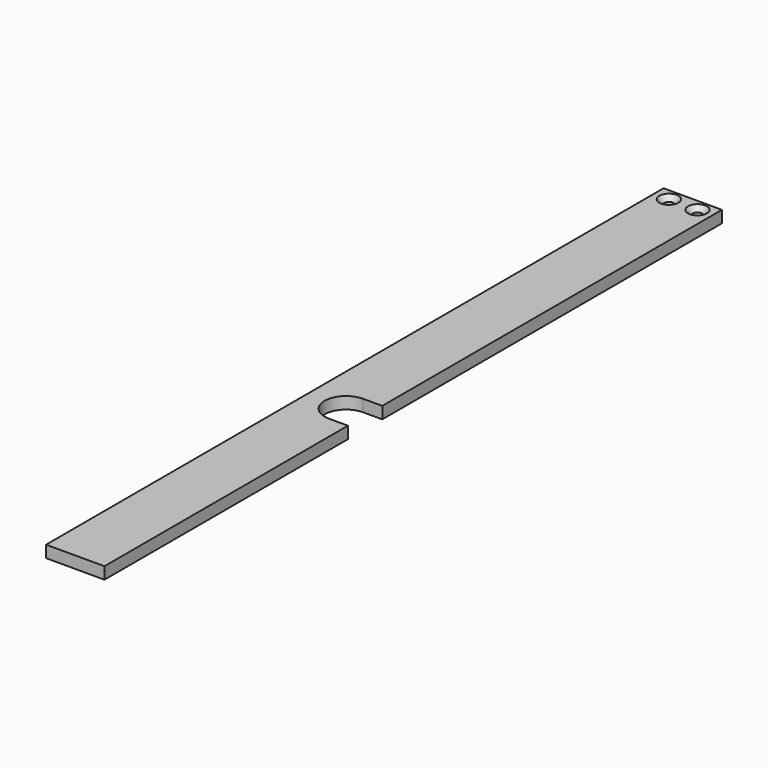
from build123d import *

# Parameters (mm, degrees)
PAD027_DEPTH    = 5
SKETCH059_R     = 2
POCKET037_DEPTH = 5.001
CHAMFER021_SIZE = 2


with BuildPart() as part:
    # Sketch054 → Pad027 (new body)
    with BuildSketch(Plane.XY):
        with BuildLine():
            Line((8.676816, 19.977719), (8.676816, -107.8))
            Line((8.676816, -107.8), (-15.823184, -107.8))
            Line((-15.823184, -107.8), (-15.823184, 216.2))
            Line((-15.823184, 216.2), (8.676816, 216.2))
            Line((8.676816, 216.2), (8.676816, 37.977719))
            Line((0.676816, 37.977719), (8.676816, 37.977719))
            ThreePointArc((0.676816, 37.977719), (-8.323184, 28.977719), (0.676816, 19.977719))
            Line((0.676816, 19.977719), (8.676816, 19.977719))
        make_face()
    extrude(amount=PAD027_DEPTH)

    # Sketch059 (on Face10 of Pad027) → Pocket037 (cut, through all)
    with BuildSketch(Plane.XY.offset(5)):
        with Locations((-9.573184, 211.2)):
            Circle(SKETCH059_R)
        with Locations((2.426816, 211.2)):
            Circle(SKETCH059_R)
    extrude(amount=-POCKET037_DEPTH, mode=Mode.SUBTRACT)

    # Chamfer021
    chamfer021_edges = [part.edges().sort_by_distance(p)[0] for p in [
        (-11.573184, 211.2, 5),
        (0.426816, 211.2, 5),
    ]]
    chamfer(chamfer021_edges, length=CHAMFER021_SIZE)


with BuildPart() as part_1:
    # Body020 placement: moved
    add(part.part.moved(Location((-100, 0, 15.5))))


solid = part_1.part
